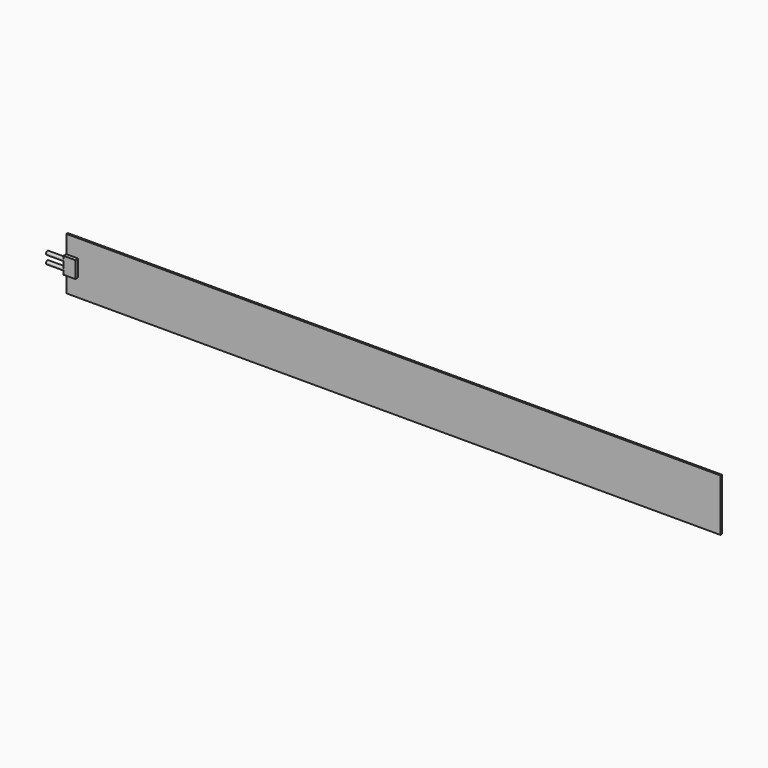
from build123d import *

# Parameters (mm, degrees)
F0_W     = 550
F0_H     = 44
F1_DEPTH = 1.5
F2_W     = 10
F2_H     = 14
F3_DEPTH = 3
F4_R     = 1.5
F5_DEPTH = 15


with BuildPart() as f1:
    # F0 (on Front) → F1 (new body)
    with BuildSketch(Plane.XZ):
        with Locations((275, 22)):
            Rectangle(F0_W, F0_H)
    extrude(amount=F1_DEPTH)

    # F2 (on face) → F3 (join)
    with BuildSketch(Plane.XZ.offset(1.5)):
        with Locations((5, 22)):
            Rectangle(F2_W, F2_H)
    extrude(amount=F3_DEPTH)

    # F4 (on face) → F5 (join)
    with BuildSketch(Plane(origin=(0, 0, 0), x_dir=(0, -1, 0), z_dir=(-1, 0, 0))):
        with Locations((2.5, 25.5)):
            Circle(F4_R)
        with Locations((2.5, 18.5)):
            Circle(F4_R)
    extrude(amount=F5_DEPTH)


solid = f1.part
